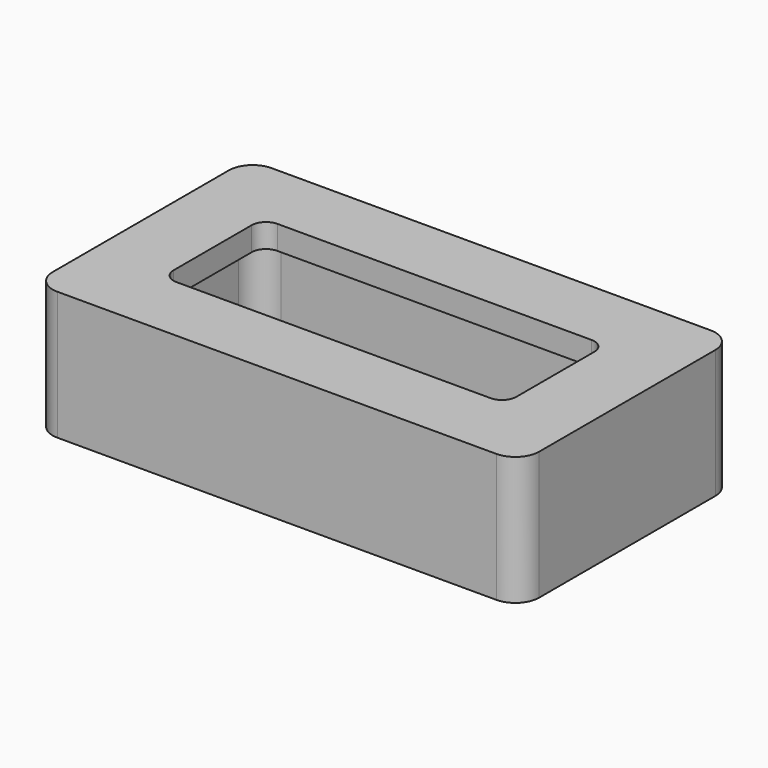
from build123d import *

# Parameters (mm, degrees)
F1_DEPTH = 4.4
F3_DEPTH = 1
F4_DEPTH = 1


with BuildPart() as f1:
    # F0 (on Top) → F1 (new body)
    with BuildSketch(Plane.XY):
        with BuildLine():
            ThreePointArc((10.22, 4.625), (9.9271067812, 5.3321067812), (9.22, 5.625))
            Line((9.22, 5.625), (-9.22, 5.625))
            ThreePointArc((-9.22, 5.625), (-9.9271067812, 5.3321067812), (-10.22, 4.625))
            Line((-10.22, 4.625), (-10.22, -4.625))
            ThreePointArc((-10.22, -4.625), (-9.9271067812, -5.3321067812), (-9.22, -5.625))
            Line((-9.22, -5.625), (9.22, -5.625))
            ThreePointArc((9.22, -5.625), (9.9271067812, -5.3321067812), (10.22, -4.625))
            Line((10.22, -4.625), (10.22, 4.625))
        make_face()
        with BuildLine():
            Line((-7.22, 3.625), (7.22, 3.625))
            ThreePointArc((7.22, 3.625), (7.9271067812, 3.3321067812), (8.22, 2.625))
            Line((8.22, 2.625), (8.22, -2.625))
            ThreePointArc((8.22, -2.625), (7.9271067812, -3.3321067812), (7.22, -3.625))
            Line((7.22, -3.625), (-7.22, -3.625))
            ThreePointArc((-7.22, -3.625), (-7.9271067812, -3.3321067812), (-8.22, -2.625))
            Line((-8.22, -2.625), (-8.22, 2.625))
            ThreePointArc((-8.22, 2.625), (-7.9271067812, 3.3321067812), (-7.22, 3.625))
        make_face(mode=Mode.SUBTRACT)
    extrude(amount=F1_DEPTH)

    # F2 (on face) → F3 (join)
    with BuildSketch(Plane.XY.offset(4.4)):
        with BuildLine():
            Line((7.22, 3.625), (-7.22, 3.625))
            ThreePointArc((-7.22, 3.625), (-7.9271067812, 3.3321067812), (-8.22, 2.625))
            Line((-8.22, 2.625), (-8.22, -2.625))
            ThreePointArc((-8.22, -2.625), (-7.9271067812, -3.3321067812), (-7.22, -3.625))
            Line((-7.22, -3.625), (7.22, -3.625))
            ThreePointArc((7.22, -3.625), (7.9271067812, -3.3321067812), (8.22, -2.625))
            Line((8.22, -2.625), (8.22, 2.625))
            ThreePointArc((8.22, 2.625), (7.9271067812, 3.3321067812), (7.22, 3.625))
        make_face()
        with BuildLine():
            ThreePointArc((7.2, -2.05), (7.0242640687, -2.4742640687), (6.6, -2.65))
            Line((6.6, -2.65), (-6.6, -2.65))
            ThreePointArc((-6.6, -2.65), (-7.0242640687, -2.4742640687), (-7.2, -2.05))
            Line((-7.2, -2.05), (-7.2, 2.05))
            ThreePointArc((-7.2, 2.05), (-7.0242640687, 2.4742640687), (-6.6, 2.65))
            Line((-6.6, 2.65), (6.6, 2.65))
            ThreePointArc((6.6, 2.65), (7.0242640687, 2.4742640687), (7.2, 2.05))
            Line((7.2, 2.05), (7.2, -2.05))
        make_face(mode=Mode.SUBTRACT)
    extrude(amount=F3_DEPTH)

    # F4 (add): a face of the model
    f4_faces = [f1.faces().sort_by_distance(p)[0] for p in [
        (9.9866855984, 0, 4.4),
    ]]
    extrude(f4_faces, amount=F4_DEPTH)


solid = f1.part
